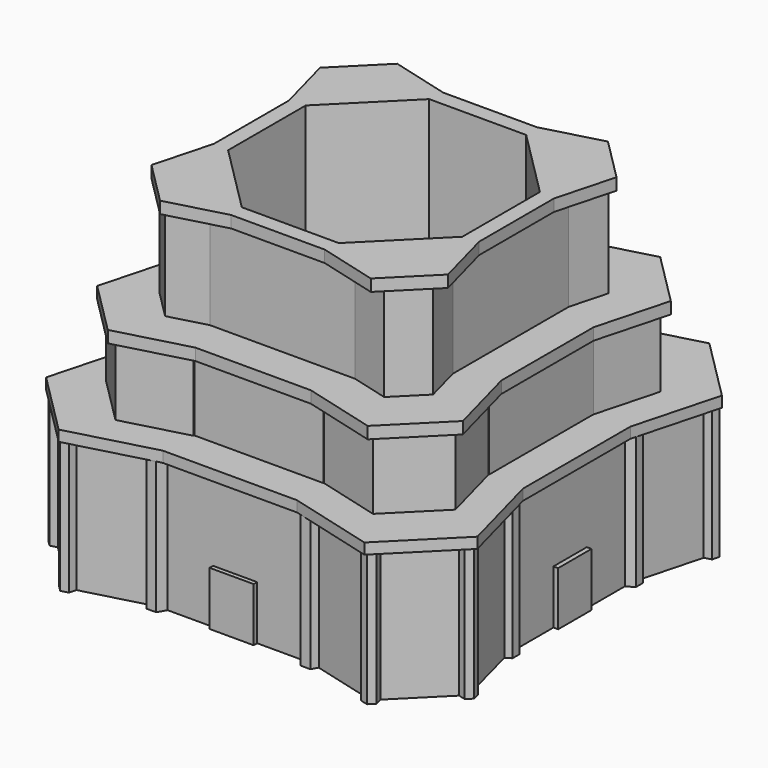
from build123d import *

# Parameters (mm, degrees)
F0_W      = 53.3507745713
F0_H      = 50.7321506739
F1_DEPTH  = 31.242
F2_W      = 10.3966733441
F2_H      = 2.234429121
F2_H_2    = 2.5326088071
F2_W_2    = 3.2508932054
F2_H_3    = 9.8414802924
F2_W_3    = 2.4003759027
F3_DEPTH  = 12.7
F6_DEPTH  = 2.54
F8_DEPTH  = 19.304
F11_DEPTH = 2.794
F13_DEPTH = 25.4
F16_DEPTH = 2.794
F18_DEPTH = 103.378
F20_DEPTH = 27.432
F22_DEPTH = 17.272


with BuildPart() as f1:
    # F0 (on Top) → F1 (new body)
    with BuildSketch(Plane.XY):
        Polygon((-20.1432896454, 44.4104948024), (-18.1788253778, 43.8875667751), (-15.9124484728, 43.8875667751), (-17.0456369253, 45.8503067493), (-19.3120138303, 45.8503067493), align=None)
        Polygon((-15.9124484728, 43.8875667751), (-18.1788253778, 43.8875667751), (-19.615650761, 42.4507413919), (-19.3120138303, 41.9248268008), (-17.0456369253, 41.9248268008), align=None)
        Polygon((-19.615650761, 42.4507413919), (-18.1788253778, 43.8875667751), (-20.1432896454, 44.4104948024), (-20.4452022828, 43.8875667751), align=None)
        Polygon((15.9124484728, 43.8875667751), (-15.9124484728, 43.8875667751), (-17.0456369253, 41.9248268008), (-19.3120138303, 41.9248268008), (-19.615650761, 42.4507413919), (-42.4294727252, 19.6369194277), (-41.8957732618, 19.3287878989), (-41.8957732618, 17.0288628567), (-43.8875667751, 15.8789003356), (-43.8875667751, -15.8789003356), (-41.8957732618, -17.0288628567), (-41.8957732618, -19.3287878989), (-42.4294727252, -19.6369194277), (-19.615650761, -42.4507413919), (-19.3120138303, -41.9248268008), (-17.0456369253, -41.9248268008), (-15.9124484728, -43.8875667751), (15.9124484728, -43.8875667751), (17.0456369253, -41.9248268008), (19.3120138303, -41.9248268008), (19.615650761, -42.4507413919), (42.5912034957, -19.4751886572), (42.1167016029, -19.2012348616), (42.1167016029, -17.156415894), (43.8875667751, -16.1340064101), (43.8875667751, 16.1340064101), (42.1167016029, 17.156415894), (42.1167016029, 19.2012348616), (42.5912034957, 19.4751886572), (19.615650761, 42.4507413919), (19.3120138303, 41.9248268008), (17.0456369253, 41.9248268008), align=None)
        with Locations((2.2852150723, -0.8790548891)):
            Rectangle(F0_W, F0_H, mode=Mode.SUBTRACT)
        Polygon((-42.4294727252, 19.6369194277), (-19.615650761, 42.4507413919), (-20.4452022828, 43.8875667751), (-20.1432896454, 44.4104948024), (-34.0120421204, 48.102269447), (-34.011219719, 48.0992011028), (-35.2549912677, 46.8552472436), (-36.9541726853, 47.3104080716), (-36.9547032414, 47.3123875536), (-47.3103536448, 36.9761095614), (-46.8587945868, 35.2913620845), (-48.0934875989, 34.0564880925), (-48.098628712, 34.0578652458), (-44.4165110341, 20.1733643096), (-43.8875667751, 20.4787504199), align=None)
        Polygon((17.0456369253, 45.8503067493), (15.9124484728, 43.8875667751), (18.1788253778, 43.8875667751), (20.1444619049, 44.4084643895), (19.3120138303, 45.8503067493), align=None)
        Polygon((18.1788253778, 43.8875667751), (15.9124484728, 43.8875667751), (17.0456369253, 41.9248268008), (19.3120138303, 41.9248268008), (19.615650761, 42.4507413919), align=None)
        Polygon((-41.8957732618, 19.3287878989), (-42.4294727252, 19.6369194277), (-43.8875667751, 18.1788253778), (-43.8875667751, 15.8789003356), (-41.8957732618, 17.0288628567), align=None)
        Polygon((-43.8875667751, 18.1788253778), (-42.4294727252, 19.6369194277), (-43.8875667751, 20.4787504199), (-44.4165110341, 20.1733643096), align=None)
        Polygon((-34.011219719, 48.0992011028), (-34.0120421204, 48.102269447), (-35.7104011366, 48.5543619308), (-36.9547032414, 47.3123875536), (-36.9541726853, 47.3104080716), (-35.2549912677, 46.8552472436), align=None)
        Polygon((-35.7104011366, 48.5543619308), (-34.0120421204, 48.102269447), (-34.4666295879, 49.7983157901), (-36.1658110055, 50.2534766181), (-37.4095825542, 49.0095227589), (-36.9547032414, 47.3123875536), align=None)
        Polygon((20.1444619049, 44.4084643895), (18.1788253778, 43.8875667751), (19.615650761, 42.4507413919), (20.4452022828, 43.8875667751), align=None)
        Polygon((-43.8875667751, 15.8789003356), (-43.8875667751, 18.1788253778), (-44.4165110341, 20.1733643096), (-45.8793602884, 19.3287878989), (-45.8793602884, 17.0288628567), align=None)
        Polygon((20.4452022828, 43.8875667751), (19.615650761, 42.4507413919), (42.5912034957, 19.4751886572), (43.8875667751, 20.2236443455), (44.3574222811, 19.9523731426), (48.1019779193, 34.086821282), (48.0967795036, 34.0854279624), (46.8969180101, 35.2851136075), (47.3359455085, 36.9240669645), (36.9862191503, 47.2722764943), (35.2591727322, 46.8093801467), (33.9947695269, 48.0735980445), (33.9962762668, 48.0792229232), (20.1444619049, 44.4084643895), align=None)
        Polygon((43.8875667751, 20.2236443455), (42.5912034957, 19.4751886572), (43.8875667751, 18.1788253778), (44.3574222811, 19.9523731426), align=None)
        Polygon((43.8875667751, 18.1788253778), (42.5912034957, 19.4751886572), (42.1167016029, 19.2012348616), (42.1167016029, 17.156415894), (43.8875667751, 16.1340064101), align=None)
        Polygon((34.4574127396, 49.8007122898), (33.9962762668, 48.0792229232), (35.721815945, 48.5364943921), (36.9862191503, 47.2722764943), (37.448862363, 48.9993907396), (36.1844591577, 50.2636086374), align=None)
        Polygon((35.721815945, 48.5364943921), (33.9962762668, 48.0792229232), (33.9947695269, 48.0735980445), (35.2591727322, 46.8093801467), (36.9862191503, 47.2722764943), align=None)
        Polygon((-41.8957732618, -17.0288628567), (-43.8875667751, -15.8789003356), (-43.8875667751, -18.1788253778), (-42.4294727252, -19.6369194277), (-41.8957732618, -19.3287878989), align=None)
        Polygon((-43.8875667751, -18.1788253778), (-43.8875667751, -15.8789003356), (-45.8793602884, -17.0288628567), (-45.8793602884, -19.3287878989), (-44.4161821994, -20.1735541624), align=None)
        Polygon((-49.7802663524, 34.5083266109), (-48.098628712, 34.0578652458), (-48.5455733403, 35.7432006028), (-47.3103536448, 36.9761095614), (-47.3108803283, 36.9780745948), (-48.9976590818, 37.4299131131), (-50.2323520939, 36.1950391212), align=None)
        Polygon((-48.5455733403, 35.7432006028), (-48.098628712, 34.0578652458), (-48.0934875989, 34.0564880925), (-46.8587945868, 35.2913620845), (-47.3103536448, 36.9761095614), align=None)
        Polygon((44.3574222811, 19.9523731426), (43.8875667751, 18.1788253778), (43.8875667751, 16.1340064101), (45.6584319472, 17.156415894), (45.6584319472, 19.2012348616), align=None)
        Polygon((-42.4294727252, -19.6369194277), (-43.8875667751, -18.1788253778), (-44.4161821994, -20.1735541624), (-43.8875667751, -20.4787504199), align=None)
        Polygon((-19.615650761, -42.4507413919), (-42.4294727252, -19.6369194277), (-43.8875667751, -20.4787504199), (-44.4161821994, -20.1735541624), (-48.1138631501, -34.1267426031), (-48.1054165877, -34.1244953472), (-46.9190781947, -35.3150349045), (-47.3554586989, -36.932190323), (-36.9372690088, -47.32582017), (-36.9358290305, -47.3204797288), (-35.252253303, -46.8722054343), (-34.0222485123, -48.1060876363), (-20.1432213106, -44.4106131617), (-20.4452022828, -43.8875667751), align=None)
        Polygon((45.6584319472, -17.156415894), (43.8875667751, -16.1340064101), (43.8875667751, -18.1788253778), (44.3554556058, -19.9535086031), (45.6584319472, -19.2012348616), align=None)
        Polygon((43.8875667751, -18.1788253778), (43.8875667751, -16.1340064101), (42.1167016029, -17.156415894), (42.1167016029, -19.2012348616), (42.5912034957, -19.4751886572), align=None)
        Polygon((48.0967795036, 34.0854279624), (48.1019779193, 34.086821282), (48.535807002, 35.7243813194), (47.3359455085, 36.9240669645), (46.8969180101, 35.2851136075), align=None)
        Polygon((48.535807002, 35.7243813194), (48.1019779193, 34.086821282), (49.7356684956, 34.5246956743), (50.174695994, 36.1636490313), (48.9748345004, 37.3633346764), (47.3359455085, 36.9240669645), align=None)
        Polygon((-19.3120138303, -41.9248268008), (-19.615650761, -42.4507413919), (-18.1788253778, -43.8875667751), (-15.9124484728, -43.8875667751), (-17.0456369253, -41.9248268008), align=None)
        Polygon((-18.1788253778, -43.8875667751), (-19.615650761, -42.4507413919), (-20.4452022828, -43.8875667751), (-20.1432213106, -44.4106131617), align=None)
        Polygon((-48.1054165877, -34.1244953472), (-48.1138631501, -34.1267426031), (-48.543284892, -35.7471643117), (-47.3554586989, -36.932190323), (-46.9190781947, -35.3150349045), align=None)
        Polygon((-48.543284892, -35.7471643117), (-48.1138631501, -34.1267426031), (-49.729623285, -34.5566247545), (-50.1674915893, -36.1792937189), (-48.9811531962, -37.3698332762), (-47.3569464989, -36.937703869), (-47.3554586989, -36.932190323), align=None)
        Polygon((44.3554556058, -19.9535086031), (43.8875667751, -18.1788253778), (42.5912034957, -19.4751886572), (43.8875667751, -20.2236443455), align=None)
        Polygon((-15.9124484728, -43.8875667751), (-18.1788253778, -43.8875667751), (-20.1432213106, -44.4106131617), (-19.3120138303, -45.8503067493), (-17.0456369253, -45.8503067493), align=None)
        Polygon((43.8875667751, -20.2236443455), (42.5912034957, -19.4751886572), (19.615650761, -42.4507413919), (20.4452022828, -43.8875667751), (20.1450479061, -44.4074494055), (33.9686666537, -48.0625083691), (33.9665110322, -48.0544403477), (35.2409343311, -46.7818430851), (36.9802475387, -47.2492274058), (47.2897628985, -36.9544838645), (46.8427763962, -35.2815108287), (48.0681202939, -34.0579226448), (48.0744843618, -34.0596327827), (44.3554556058, -19.9535086031), align=None)
        Polygon((20.4452022828, -43.8875667751), (19.615650761, -42.4507413919), (18.1788253778, -43.8875667751), (20.1450479061, -44.4074494055), align=None)
        Polygon((18.1788253778, -43.8875667751), (19.615650761, -42.4507413919), (19.3120138303, -41.9248268008), (17.0456369253, -41.9248268008), (15.9124484728, -43.8875667751), align=None)
        Polygon((49.7404506938, -34.5073074965), (48.0744843618, -34.0596327827), (48.5151067961, -35.7308956805), (47.2897628985, -36.9544838645), (48.9620932984, -37.4038687163), (50.1874371961, -36.1802805323), align=None)
        Polygon((48.5151067961, -35.7308956805), (48.0744843618, -34.0596327827), (48.0681202939, -34.0579226448), (46.8427763962, -35.2815108287), (47.2897628985, -36.9544838645), align=None)
        Polygon((18.1788253778, -43.8875667751), (15.9124484728, -43.8875667751), (17.0456369253, -45.8503067493), (19.3120138303, -45.8503067493), (20.1450479061, -44.4074494055), align=None)
        Polygon((-34.4758194491, -49.7882441328), (-34.0222485123, -48.1060876363), (-35.7058242398, -48.5543619308), (-36.9372690088, -47.32582017), (-37.3893999674, -49.0026362253), (-36.1593951767, -50.2365184273), align=None)
        Polygon((-35.7058242398, -48.5543619308), (-34.0222485123, -48.1060876363), (-35.252253303, -46.8722054343), (-36.9358290305, -47.3204797288), (-36.9372690088, -47.32582017), align=None)
        Polygon((33.9665110322, -48.0544403477), (33.9686666537, -48.0625083691), (35.7058242398, -48.5218246684), (36.9802475387, -47.2492274058), (35.2409343311, -46.7818430851), align=None)
        Polygon((35.7058242398, -48.5218246684), (33.9686666537, -48.0625083691), (34.4314009409, -49.794421931), (36.1707141486, -50.2618062518), (37.4451374475, -48.9892089892), (36.9802475387, -47.2492274058), align=None)
    extrude(amount=F1_DEPTH)

    # F2 (on Top) → F3 (join)
    with BuildSketch(Plane.XY):
        with Locations((0, -43.7958687544)):
            Rectangle(F2_W, F2_H)
        with Locations((0, 43.6467789114)):
            Rectangle(F2_W, F2_H_2)
        with Locations((43.3765929192, 0)):
            Rectangle(F2_W_2, F2_H_3)
        with Locations((-43.8018515706, 0)):
            Rectangle(F2_W_3, F2_H_3)
    extrude(amount=F3_DEPTH)

    # F5 (on offset) → F6 (join)
    with BuildSketch(Plane.XY.offset(31.242)):
        Polygon((-50.8481573107, -36.0442500768), (-36.0442500768, -50.8481573107), (-15.8217367199, -45.4295511878), (-10.403130597, -25.207037831), (-10.4299768534, -25.1801915746), (-25.1801915746, -10.4299768534), (-25.207037831, -10.403130597), (-45.4295511878, -15.8217367199), align=None)
        Polygon((-10.403130597, -25.207037831), (-15.8217367199, -45.4295511878), (15.8217367199, -45.4295511878), (10.403130597, -25.207037831), (10.4299768534, -25.1801915746), align=None)
        Polygon((-45.4295511878, 15.8217367199), (-45.4295511878, -15.8217367199), (-25.207037831, -10.403130597), (-25.1801915746, -10.4299768534), (-25.1801915746, 10.4299768534), (-25.207037831, 10.403130597), align=None)
        Polygon((10.403130597, -25.207037831), (15.8217367199, -45.4295511878), (36.0442500768, -50.8481573107), (50.8481573107, -36.0442500768), (45.4295511878, -15.8217367199), (25.207037831, -10.403130597), (25.1801915746, -10.4299768534), (10.4299768534, -25.1801915746), align=None)
        Polygon((-50.8481573107, 36.0442500768), (-45.4295511878, 15.8217367199), (-25.207037831, 10.403130597), (-25.1801915746, 10.4299768534), (-10.4299768534, 25.1801915746), (-10.403130597, 25.207037831), (-15.8217367199, 45.4295511878), (-36.0442500768, 50.8481573107), align=None)
        Polygon((25.207037831, 10.403130597), (25.207037831, -10.403130597), (45.4295511878, -15.8217367199), (45.4295511878, 15.8217367199), align=None)
        Polygon((15.8217367199, 45.4295511878), (-15.8217367199, 45.4295511878), (-10.403130597, 25.207037831), (10.4299768534, 25.1801915746), (10.403130597, 25.207037831), align=None)
        Polygon((25.1801915746, 10.4299768534), (25.207037831, 10.403130597), (45.4295511878, 15.8217367199), (50.8481573107, 36.0442500768), (36.0442500768, 50.8481573107), (15.8217367199, 45.4295511878), (10.403130597, 25.207037831), (10.4299768534, 25.1801915746), align=None)
    extrude(amount=F6_DEPTH)

    # F7 (on offset) → F8 (join)
    with BuildSketch(Plane.XY.offset(31.242)):
        Polygon((-37.0681025088, 15.3541107906), (-15.3541107906, 37.0681025088), (-15.0865716558, 37.0681025088), (-15.1431093275, 37.2791039719), (-30.2622748386, 41.3302721608), (-41.3302721608, 30.2622748386), (-37.2791039719, 15.1431093275), (-37.0681025088, 15.0865716558), align=None)
        Polygon((-15.0865716558, 37.0681025088), (-15.3541107906, 37.0681025088), (-37.0681025088, 15.3541107906), (-37.0681025088, 15.0865716558), (-22.1599384607, 11.0919411385), (-11.0919411385, 22.1599384607), align=None)
        Polygon((15.3489625805, 37.0681025088), (-15.0865716558, 37.0681025088), (-11.0919411385, 22.1599384607), (11.3746280719, 22.2356841962), align=None)
        Polygon((15.3500505253, 37.072162774), (15.3489625805, 37.0681025088), (15.3541107906, 37.0681025088), (37.0681025088, 15.3541107906), (37.0681025088, 15.3489625805), (37.072162774, 15.3500505253), (41.0475852275, 30.1865291031), (30.1865291031, 41.0475852275), align=None)
        Polygon((15.3541107906, 37.0681025088), (15.3489625805, 37.0681025088), (11.3746280719, 22.2356841962), (22.2356841962, 11.3746280719), (37.0681025088, 15.3489625805), (37.0681025088, 15.3541107906), align=None)
        Polygon((-22.1599384607, 11.0919411385), (-37.0681025088, 15.0865716558), (-37.0681025088, -15.0865716558), (-22.1599384607, -11.0919411385), align=None)
        Polygon((-22.1599384607, -11.0919411385), (-37.0681025088, -15.0865716558), (-37.0681025088, -15.3541107906), (-15.3541107906, -37.0681025088), (-15.0865716558, -37.0681025088), (-11.0919411385, -22.1599384607), align=None)
        Polygon((-37.0681025088, -15.3541107906), (-37.0681025088, -15.0865716558), (-37.2791039719, -15.1431093275), (-41.3302721608, -30.2622748386), (-30.2622748386, -41.3302721608), (-15.1431093275, -37.2791039719), (-15.0865716558, -37.0681025088), (-15.3541107906, -37.0681025088), align=None)
        Polygon((37.0681025088, 15.3489625805), (22.2356841962, 11.3746280719), (22.263603076, -11.4788227497), (36.995886976, -15.4263263234), (37.0681025088, -15.3541107906), align=None)
        Polygon((36.995886976, -15.4263263234), (22.263603076, -11.4788227497), (11.4788227497, -22.263603076), (15.4263263234, -36.995886976), align=None)
        Polygon((11.4788227497, -22.263603076), (-11.0919411385, -22.1599384607), (-15.0865716558, -37.0681025088), (15.3541107906, -37.0681025088), (15.4263263234, -36.995886976), align=None)
        Polygon((40.9433905496, -30.1586102233), (36.995886976, -15.4263263234), (15.4263263234, -36.995886976), (30.1586102233, -40.9433905496), align=None)
    extrude(amount=F8_DEPTH)

    # F10 (on offset) → F11 (join)
    with BuildSketch(Plane.XY.offset(50.292)):
        Polygon((-43.1185501261, -30.644052978), (-30.644052978, -43.1185501261), (-13.6035729742, -38.5525672705), (13.6035729742, -38.5525672705), (30.644052978, -43.1185501261), (43.1185501261, -30.644052978), (38.5525672705, -13.6035729742), (38.5510186964, 13.6051215483), (43.1164347346, 30.6434861605), (30.6434861605, 43.1164347346), (13.6051215483, 38.5510186964), (-13.6051215483, 38.5510186964), (-30.6434861605, 43.1164347346), (-43.1164347346, 30.6434861605), (-38.5510186964, 13.6051215483), (-38.5525672705, -13.6035729742), align=None)
        Polygon((-9.0375901186, -21.5120872667), (-21.5120872667, -9.0375901186), (-21.5126540842, 9.0397055101), (-9.0397055101, 21.5126540842), (9.0397055101, 21.5126540842), (21.5126540842, 9.0397055101), (21.5120872667, -9.0375901186), (9.0375901186, -21.5120872667), align=None, mode=Mode.SUBTRACT)
    extrude(amount=F11_DEPTH)

    # F12 (on offset) → F13 (join)
    with BuildSketch(Plane.XY.offset(50.292)):
        Polygon((-32.2327940663, -25.8321565638), (-25.8321565638, -32.2327940663), (-17.0887231349, -29.88999814), (-14.7459272086, -21.1465647111), (-21.1465647111, -14.7459272086), (-29.88999814, -17.0887231349), align=None)
        Polygon((-14.7459272086, -21.1465647111), (-17.0887231349, -29.88999814), (17.0887231349, -29.88999814), (14.7459272086, -21.1465647111), align=None)
        Polygon((-29.88999814, 17.0887231349), (-29.88999814, -17.0887231349), (-21.1465647111, -14.7459272086), (-21.1465647111, 14.7459272086), align=None)
        Polygon((14.7459272086, -21.1465647111), (17.0887231349, -29.88999814), (25.8321565638, -32.2327940663), (32.2327940663, -25.8321565638), (29.88999814, -17.0887231349), (21.1465647111, -14.7459272086), align=None)
        Polygon((-32.2327940663, 25.8321565638), (-29.88999814, 17.0887231349), (-21.1465647111, 14.7459272086), (-14.7459272086, 21.1465647111), (-17.0887231349, 29.88999814), (-25.8321565638, 32.2327940663), align=None)
        Polygon((21.1465647111, 14.7459272086), (21.1465647111, -14.7459272086), (29.88999814, -17.0887231349), (29.88999814, 17.0887231349), align=None)
        Polygon((-17.0887231349, 29.88999814), (-14.7459272086, 21.1465647111), (14.7459272086, 21.1465647111), (17.0887231349, 29.88999814), align=None)
        Polygon((14.7459272086, 21.1465647111), (21.1465647111, 14.7459272086), (29.88999814, 17.0887231349), (32.2327940663, 25.8321565638), (25.8321565638, 32.2327940663), (17.0887231349, 29.88999814), align=None)
    extrude(amount=F13_DEPTH)

    # F15 (on offset) → F16 (join)
    with BuildSketch(Plane.XY.offset(75.692)):
        Polygon((-24.8438008947, 34.9560788946), (-34.9560788946, 24.8438008947), (-31.2547282565, 11.0301722567), (-31.2547282565, -11.0301722567), (-34.9560788946, -24.8438008947), (-24.8438008947, -34.9560788946), (-11.0301722567, -31.2547282565), (11.0301722567, -31.2547282565), (24.8438008947, -34.9560788946), (34.9560788946, -24.8438008947), (31.2547282565, -11.0301722567), (31.2547282565, 11.0301722567), (34.9560788946, 24.8438008947), (24.8438008947, 34.9560788946), (11.0301722567, 31.2547282565), (-11.0301722567, 31.2547282565), align=None)
        Polygon((-17.4410996185, 7.3288216185), (-7.3288216185, 17.4410996185), (7.3288216185, 17.4410996185), (17.4410996185, 7.3288216185), (17.4410996185, -7.3288216185), (7.3288216185, -17.4410996185), (-7.3288216185, -17.4410996185), (-17.4410996185, -7.3288216185), align=None, mode=Mode.SUBTRACT)
    extrude(amount=F16_DEPTH)

    # F17 (on offset) → F18 (cut, symmetric)
    with BuildSketch(Plane.XY.offset(75.692)):
        Polygon((-27.6120696217, 11.4372937225), (-27.6120696217, -11.4372937225), (-11.4372937225, -27.6120696217), (11.4372937225, -27.6120696217), (27.6120696217, -11.4372937225), (27.6120696217, 11.4372937225), (11.4372937225, 27.6120696217), (-11.4372937225, 27.6120696217), align=None)
    extrude(amount=F18_DEPTH, both=True, mode=Mode.SUBTRACT)

    # F19 (on Top) → F20 (cut, symmetric)
    with BuildSketch(Plane.XY):
        Polygon((39.9273112416, -16.5384338254), (16.5384338254, -39.9273112416), (16.215423735, -39.9273112416), (32.3407800556, -44.4982428343), (44.373050177, -32.8080054133), (40.2651426549, -16.5426351126), (39.9273112416, -16.4468726222), align=None)
        Polygon((16.215423735, -39.9273112416), (16.5384338254, -39.9273112416), (39.9273112416, -16.5384338254), (39.9273112416, -16.4468726222), (24.1249650114, -11.9675022327), (12.09269489, -23.6577396537), (16.2006024121, -39.9231099544), align=None)
        Polygon((-16.5384338254, -39.9273112416), (16.215423735, -39.9273112416), (16.2006024121, -39.9231099544), (12.09269489, -23.6577396537), (24.1249650114, -11.9675022327), (39.9273112416, -16.4468726222), (39.9273112416, 16.1104380081), (23.8288591332, 11.7968707662), (11.7968707662, 23.8288591332), (16.1104380081, 39.9273112416), (-16.1207655425, 39.9273112416), (-11.8079971382, 23.8318404356), (-23.8318404356, 11.8079971382), (-39.9273112416, 16.1207655425), (-39.9273112416, -16.5384338254), (-39.8466383544, -16.6191067126), (-23.9819392094, -12.3681733885), (-12.3681733885, -23.9819392094), (-16.6191067126, -39.8466383544), align=None)
        Polygon((-32.4838058576, -44.0975716785), (-16.6191067126, -39.8466383544), (-39.8466383544, -16.6191067126), (-44.0975716785, -32.4838058576), align=None)
        Polygon((-39.8466383544, -16.6191067126), (-16.6191067126, -39.8466383544), (-12.3681733885, -23.9819392094), (-23.9819392094, -12.3681733885), align=None)
        Polygon((23.8288591332, 11.7968707662), (39.9273112416, 16.1104380081), (39.9273112416, 16.5384338254), (16.5384338254, 39.9273112416), (16.1104380081, 39.9273112416), (11.7968707662, 23.8288591332), align=None)
        Polygon((39.9273112416, 16.5384338254), (39.9273112416, 16.1104380081), (40.2648609004, 16.2008841666), (44.6688743008, 32.6368859338), (32.6368859338, 44.6688743008), (16.2008841666, 40.2648609004), (16.1104380081, 39.9273112416), (16.5384338254, 39.9273112416), align=None)
        Polygon((-40.2567158308, 16.2090292362), (-39.9273112416, 16.1207655425), (-39.9273112416, 16.5384338254), (-16.5384338254, 39.9273112416), (-16.1207655425, 39.9273112416), (-16.2090292362, 40.2567158308), (-32.6339046314, 44.6577479288), (-44.6577479288, 32.6339046314), align=None)
        Polygon((-39.9273112416, 16.5384338254), (-39.9273112416, 16.1207655425), (-23.8318404356, 11.8079971382), (-11.8079971382, 23.8318404356), (-16.1207655425, 39.9273112416), (-16.5384338254, 39.9273112416), align=None)
    extrude(amount=F20_DEPTH, both=True, mode=Mode.SUBTRACT)

    # F21 (on offset) → F22 (cut, symmetric)
    with BuildSketch(Plane.XY.offset(31.242)):
        Polygon((32.9513214529, -13.6488842439), (32.9513214529, 13.6488842439), (32.8029558269, 13.7972498698), (19.8218172498, 10.3189642713), (10.3189642713, 19.8218172498), (13.7972498698, 32.8029558269), (13.6488842439, 32.9513214529), (-13.4192464169, 32.9513214529), (-9.8688926824, 19.701220931), (-19.701220931, 9.8688926824), (-32.9513214529, 13.4192464169), (-32.9513214529, -13.6488842439), (-32.8029558269, -13.7972498698), (-19.8218172498, -10.3189642713), (-10.3189642713, -19.8218172498), (-13.7972498698, -32.8029558269), (-13.6488842439, -32.9513214529), (13.6488842439, -32.9513214529), (13.7972498698, -32.8029558269), (10.3189642713, -19.8218172498), (19.8218172498, -10.3189642713), (32.8029558269, -13.7972498698), align=None)
        Polygon((19.8218172498, 10.3189642713), (32.8029558269, 13.7972498698), (13.7972498698, 32.8029558269), (10.3189642713, 19.8218172498), align=None)
        Polygon((13.7972498698, 32.8029558269), (32.8029558269, 13.7972498698), (36.2812414255, 26.7783884469), (26.7783884469, 36.2812414255), align=None)
        Polygon((36.2812414255, -26.7783884469), (32.8029558269, -13.7972498698), (13.7972498698, -32.8029558269), (26.7783884469, -36.2812414255), align=None)
        Polygon((13.7972498698, -32.8029558269), (32.8029558269, -13.7972498698), (19.8218172498, -10.3189642713), (10.3189642713, -19.8218172498), align=None)
        Polygon((-9.8688926824, 19.701220931), (-13.4192464169, 32.9513214529), (-13.6488842439, 32.9513214529), (-32.9513214529, 13.6488842439), (-32.9513214529, 13.4192464169), (-19.701220931, 9.8688926824), align=None)
        Polygon((-13.6488842439, 32.9513214529), (-13.4192464169, 32.9513214529), (-13.4677745998, 33.132431097), (-26.8989847657, 36.7313130143), (-36.7313130143, 26.8989847657), (-33.132431097, 13.4677745998), (-32.9513214529, 13.4192464169), (-32.9513214529, 13.6488842439), align=None)
        Polygon((-26.7783884469, -36.2812414255), (-13.7972498698, -32.8029558269), (-32.8029558269, -13.7972498698), (-36.2812414255, -26.7783884469), align=None)
        Polygon((-32.8029558269, -13.7972498698), (-13.7972498698, -32.8029558269), (-10.3189642713, -19.8218172498), (-19.8218172498, -10.3189642713), align=None)
    extrude(amount=F22_DEPTH, both=True, mode=Mode.SUBTRACT)


solid = f1.part
